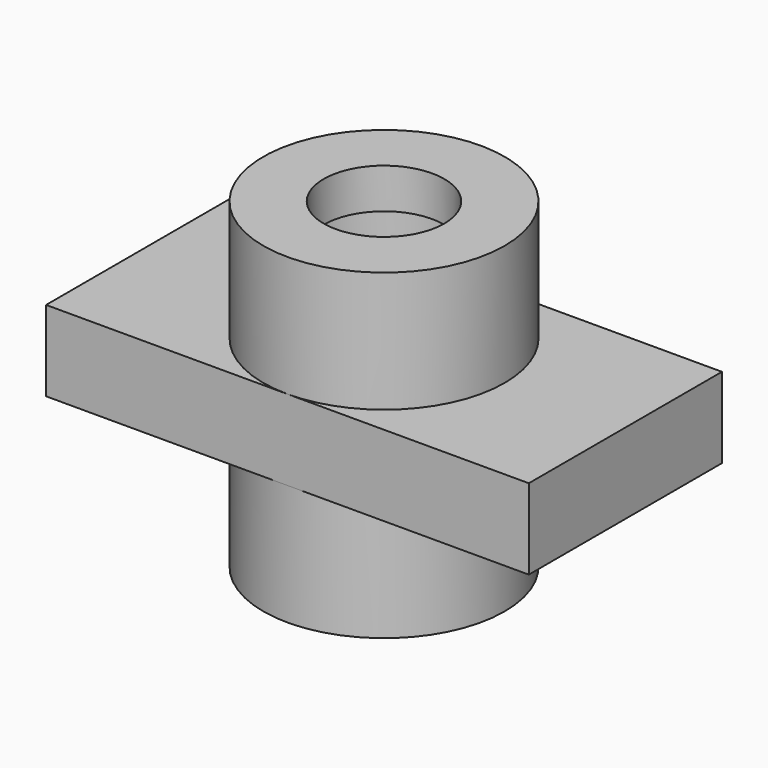
from build123d import *

# Parameters (mm, degrees)
F0_R      = 19.05
F1_DEPTH  = 25.4
F2_R      = 9.525
F3_DEPTH  = 6.35
F4_R      = 12.7
F5_DEPTH  = 6.35
F6_R      = 9.525
F7_DEPTH  = 38.101
F8_W      = 38.1
F8_H      = 12.7
F9_DEPTH  = 38.1
F9_FACE_R = 9.525
F10_DEPTH = 31.751


with BuildPart() as f1:
    # F0 (on Top) → F1 (new body, symmetric)
    with BuildSketch(Plane.XY):
        Circle(F0_R)
    extrude(amount=F1_DEPTH, both=True)

    # F2 (on face) → F3 (cut)
    with BuildSketch(Plane.XY.offset(25.4)):
        Circle(F2_R)
    extrude(amount=-F3_DEPTH, mode=Mode.SUBTRACT)

    # F4 (on face) → F5 (cut)
    with BuildSketch(Plane.XY.offset(19.05)):
        Circle(F4_R)
    extrude(amount=-F5_DEPTH, mode=Mode.SUBTRACT)

    # F6 (on face) → F7 (cut, through all)
    with BuildSketch(Plane.XY.offset(12.7)):
        Circle(F6_R)
    extrude(amount=-F7_DEPTH, mode=Mode.SUBTRACT)

    # F8 (on Right) → F9 (join, symmetric)
    with BuildSketch(Plane.YZ):
        Rectangle(F8_W, F8_H)
    extrude(amount=F9_DEPTH, both=True)

    # F9_face (on face) → F10 (cut, through all)
    with BuildSketch(Plane.XY.offset(6.35)):
        Circle(F9_FACE_R)
    extrude(amount=-F10_DEPTH, mode=Mode.SUBTRACT)


solid = f1.part
